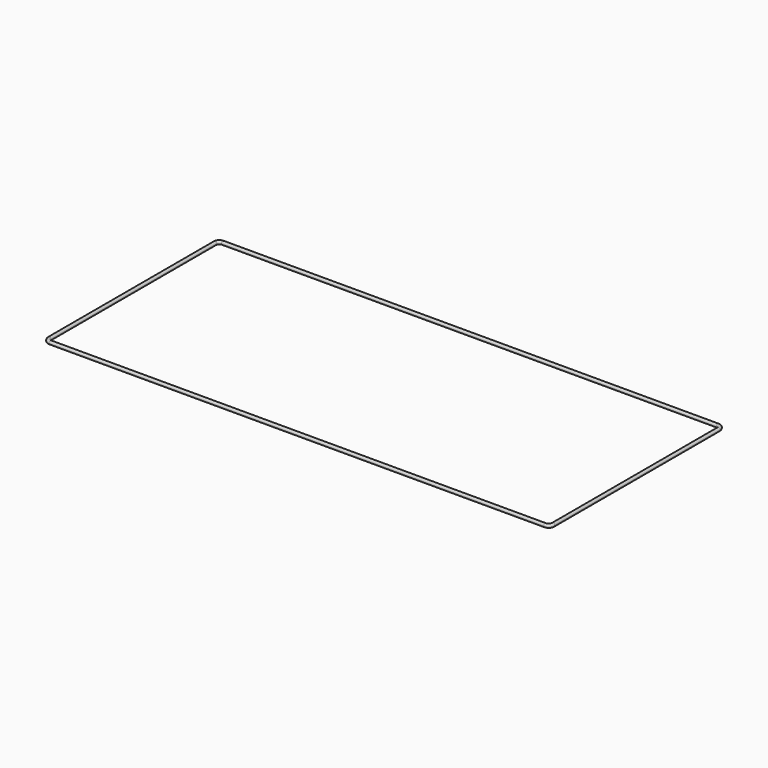
from build123d import *

# Parameters (mm, degrees)
F1_R = 3


with BuildPart() as f2:
    # F2: sweep along a path in F0
    with BuildLine(Plane.XY) as f2_path:
        Line((-365.234485, 193.756955), (-365.234485, -172.243045))
        ThreePointArc((-365.234485, -172.243045), (-361.719766, -180.728326), (-353.234485, -184.243045))
        Line((-353.234485, -184.243045), (522.765515, -184.243045))
        ThreePointArc((522.765515, -184.243045), (531.250796, -180.728326), (534.765515, -172.243045))
        Line((534.765515, -172.243045), (534.765515, 193.756955))
        ThreePointArc((534.765515, 193.756955), (531.250796, 202.242236), (522.765515, 205.756955))
        Line((522.765515, 205.756955), (-353.234485, 205.756955))
        ThreePointArc((-353.234485, 205.756955), (-361.719766, 202.242236), (-365.234485, 193.756955))
    # F1 (on Front) → F2 (sweep)
    with BuildSketch(Plane.XZ):
        with Locations((-361.228049, -20.361764)):
            Circle(F1_R)
    sweep(path=f2_path.line)


solid = f2.part
